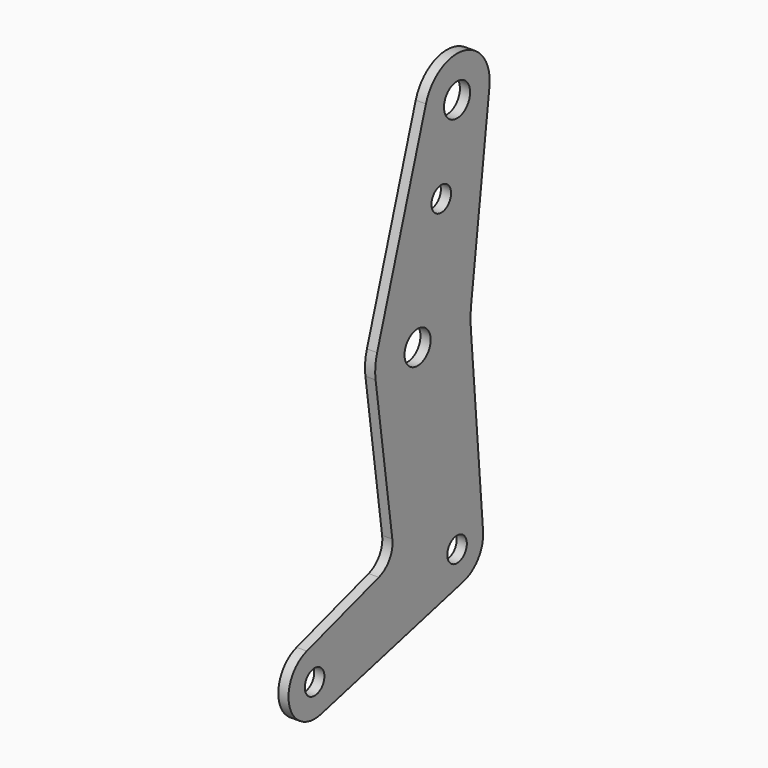
from build123d import *

# Parameters (mm, degrees)
F0_R     = 3
F0_R_2   = 4
F1_DEPTH = 2.5


with BuildPart() as f1:
    # F0 (on Right) → F1 (new body)
    with BuildSketch(Plane.YZ):
        with BuildLine():
            Line((-23.98203, 3.693869), (-46.064754, -3.255427))
            ThreePointArc((-46.064754, -3.255427), (-51.363547, -13.05589), (-41.727933, -18.648851))
            Line((-41.727933, -18.648851), (1.935375, -7.762366))
            ThreePointArc((1.935375, -7.762366), (6.502157, -4.660681), (7.972699, 0.660358))
            Line((7.972699, 0.660358), (4.232059, 45.822225))
            ThreePointArc((4.232059, 45.822225), (4.149011, 48.51186), (4.344404, 51.195673))
            Line((4.344404, 51.195673), (9.922664, 95.788309))
            ThreePointArc((9.922664, 95.788309), (2.127756, 106.800584), (-9.540323, 100.02661))
            Line((-9.540323, 100.02661), (-24.498515, 52.410936))
            ThreePointArc((-24.498515, 52.410936), (-25.05208, 49.583636), (-24.969341, 46.703842))
            Line((-24.969341, 46.703842), (-19.841616, 10.252983))
            ThreePointArc((-19.841616, 10.252983), (-20.709418, 6.214413), (-23.98203, 3.693869))
        make_face()
        with Locations((-43.663308, -10.886485)):
            Circle(F0_R, mode=Mode.SUBTRACT)
        Circle(F0_R, mode=Mode.SUBTRACT)
        with Locations((-12.096095, 48.514786)):
            Circle(F0_R_2, mode=Mode.SUBTRACT)
        with Locations((-4.838438, 77.623658)):
            Circle(F0_R, mode=Mode.SUBTRACT)
        with Locations((0, 97.029573)):
            Circle(F0_R_2, mode=Mode.SUBTRACT)
    extrude(amount=F1_DEPTH)


solid = f1.part
